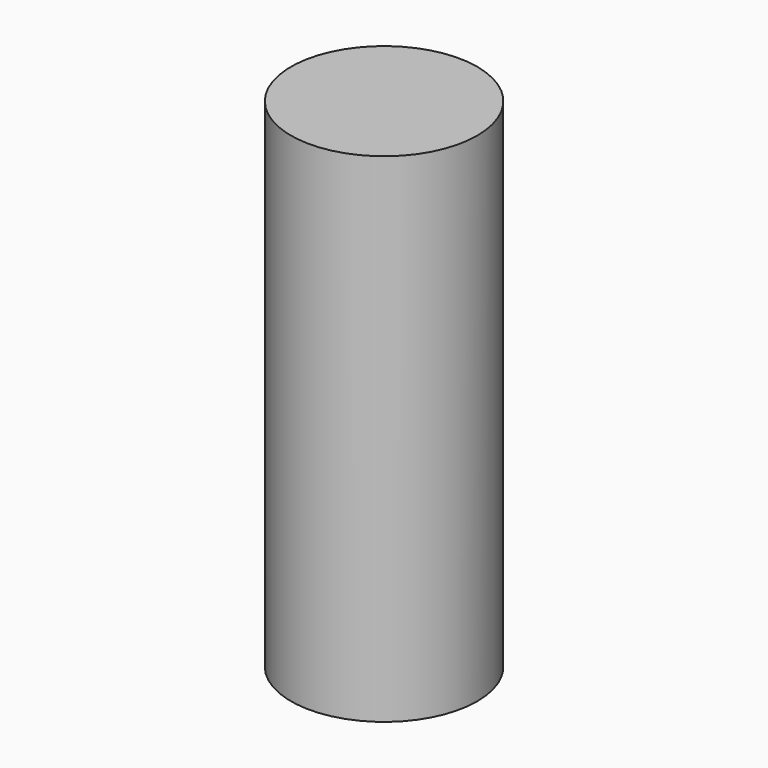
from build123d import *

# Parameters (mm, degrees)
CYLINDER_R     = 2.8067
CYLINDER_DEPTH = 15


with BuildPart() as part:
    # Cylinder → Cylinder (new body)
    with BuildSketch(Plane.XY.offset(-2.5)):
        Circle(CYLINDER_R)
    extrude(amount=CYLINDER_DEPTH)


solid = part.part
